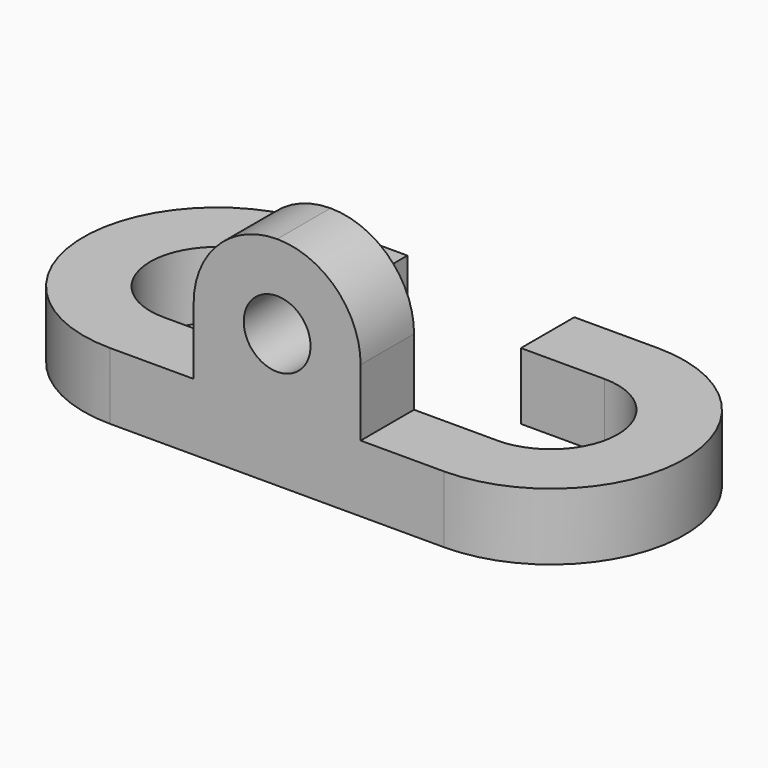
from build123d import *

# Parameters (mm, degrees)
F1_DEPTH = 12.7
F2_W     = 15.875
F2_H     = 12.7
F3_DEPTH = 12.7


with BuildPart() as f1:
    # F0 (on Front) → F1 (new body)
    with BuildSketch(Plane.XZ):
        with BuildLine():
            Line((15.875, -25.4), (15.875, 0))
            ThreePointArc((15.875, 0), (11.22532, 11.22532), (0, 15.875))
            ThreePointArc((0, 15.875), (-11.22532, 11.22532), (-15.875, 0))
            Line((-15.875, 0), (-15.875, -25.4))
            Line((-15.875, -25.4), (0, -25.4))
            Line((0, -25.4), (15.875, -25.4))
        make_face()
        with BuildLine():
            ThreePointArc((0, 6.35), (6.35, 0), (0, -6.35))
            ThreePointArc((0, -6.35), (-6.35, 0), (0, 6.35))
        make_face(mode=Mode.SUBTRACT)
    extrude(amount=F1_DEPTH)

    # F2 (on face) → F3 (join)
    with BuildSketch(Plane(origin=(0, 0, -25.4), x_dir=(1, 0, 0), z_dir=(0, 0, -1))):
        with BuildLine():
            ThreePointArc((-31.75, -25.4), (-44.45, -12.7), (-31.75, 0))
            Line((-31.75, 0), (-31.75, 12.7))
            ThreePointArc((-31.75, 12.7), (-57.15, -12.7), (-31.75, -38.1))
            Line((-31.75, -38.1), (-31.75, -25.4))
        make_face()
        with Locations((-23.8125, 6.35)):
            Rectangle(F2_W, F2_H)
        with Locations((-23.8125, -31.75)):
            Rectangle(F2_W, F2_H)
        with Locations((23.8125, 6.35)):
            Rectangle(F2_W, F2_H)
        with BuildLine():
            Line((31.75, 12.7), (31.75, 0))
            ThreePointArc((31.75, 0), (44.45, -12.7), (31.75, -25.4))
            Line((31.75, -25.4), (31.75, -38.1))
            ThreePointArc((31.75, -38.1), (57.15, -12.7), (31.75, 12.7))
        make_face()
        with Locations((23.8125, -31.75)):
            Rectangle(F2_W, F2_H)
    extrude(amount=-F3_DEPTH)


solid = f1.part
